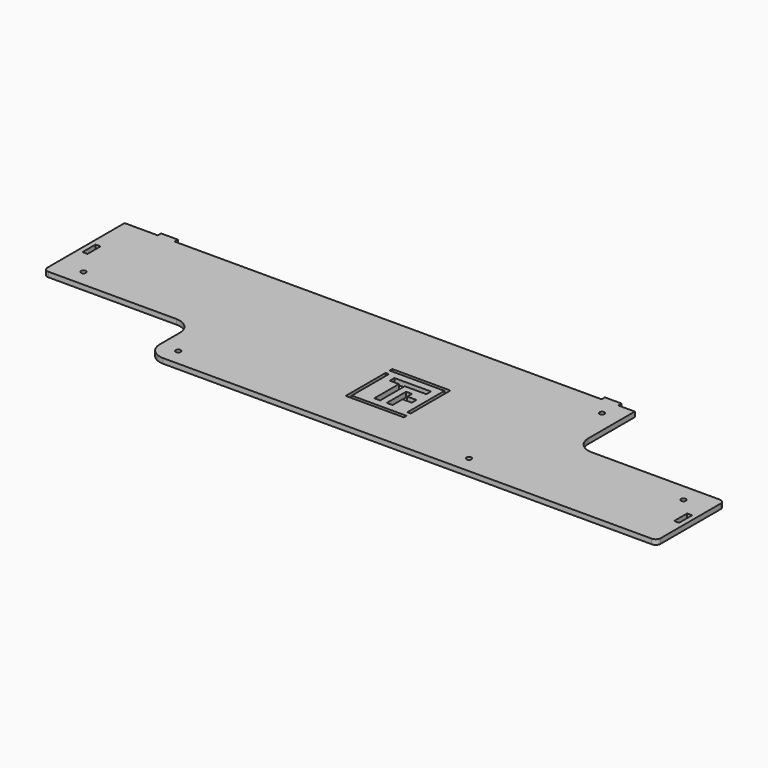
from build123d import *

# Parameters (mm, degrees)
SKETCH001002018_R = 1.5
SKETCH001002018_W = 9.8
SKETCH001002018_H = 3
PAD020_DEPTH      = 3
FILLET031_R       = 3
FILLET032_R       = 10


with BuildPart() as part:
    # Sketch001002018 → Pad020 (new body)
    with BuildSketch(Plane(origin=(0, 45, 17.5), x_dir=(0, -1, 0), z_dir=(0, 0, 1))):
        Polygon((-61, -198.5), (0, -198.5), (0, -108.5), (35, -108.5), (35, 198.5), (-16, 198.5), (-16, 108.5), (-61, 108.5), (-61, 98.5), (-63.5, 98.5), (-63.5, 88.5), (-61, 88.5), (-61, -168.5), (-63.5, -168.5), (-63.5, -178.5), (-61, -178.5), align=None)
        with Locations((-50.1, 97.5)):
            Circle(SKETCH001002018_R, mode=Mode.SUBTRACT)
        with Locations((-5.1, 182.5)):
            Circle(SKETCH001002018_R, mode=Mode.SUBTRACT)
        with Locations((24.9, 77.5)):
            Circle(SKETCH001002018_R, mode=Mode.SUBTRACT)
        with Locations((-10.1, -182.5)):
            Circle(SKETCH001002018_R, mode=Mode.SUBTRACT)
        with Locations((24.9, -97.5)):
            Circle(SKETCH001002018_R, mode=Mode.SUBTRACT)
        with Locations((-30.5, -194)):
            Rectangle(SKETCH001002018_W, SKETCH001002018_H, mode=Mode.SUBTRACT)
        with Locations((9.5, 194)):
            Rectangle(SKETCH001002018_W, SKETCH001002018_H, mode=Mode.SUBTRACT)
        Polygon((-18.6, -7.5), (-18.6, -5.5), (9.4, -5.5), (9.4, 27.5), (11.4, 27.5), (11.4, -7.5), align=None, mode=Mode.SUBTRACT)
        Polygon((-21.6, -7.5), (-23.6, -7.5), (-23.6, 27.5), (6.4, 27.5), (6.4, 25.5), (-21.6, 25.5), align=None, mode=Mode.SUBTRACT)
        Polygon((-13.6, -1), (-17.1, -1), (-17.1, 21), (-13.6, 21), (-13.6, 8), (4.9, 8), (4.9, 4.5), (-13.6, 4.5), align=None, mode=Mode.SUBTRACT)
        Polygon((-9.6, 12), (4.9, 12), (4.9, 15.5), (-2.6, 15.5), (-2.6, 21), (-6.1, 21), (-6.1, 15.5), (-9.6, 15.5), align=None, mode=Mode.SUBTRACT)
    extrude(amount=PAD020_DEPTH)

    # Fillet031
    fillet031_edges = [part.edges().sort_by_distance(p)[0] for p in [
        (-198.5, 45, 19),
        (198.5, 10, 19),
        (198.5, 61, 19),
    ]]
    fillet(fillet031_edges, radius=FILLET031_R)

    # Fillet032
    fillet032_edges = [part.edges().sort_by_distance(p)[0] for p in [
        (-108.5, 45, 19),
        (-108.5, 10, 19),
        (108.5, 61, 19),
    ]]
    fillet(fillet032_edges, radius=FILLET032_R)


solid = part.part
